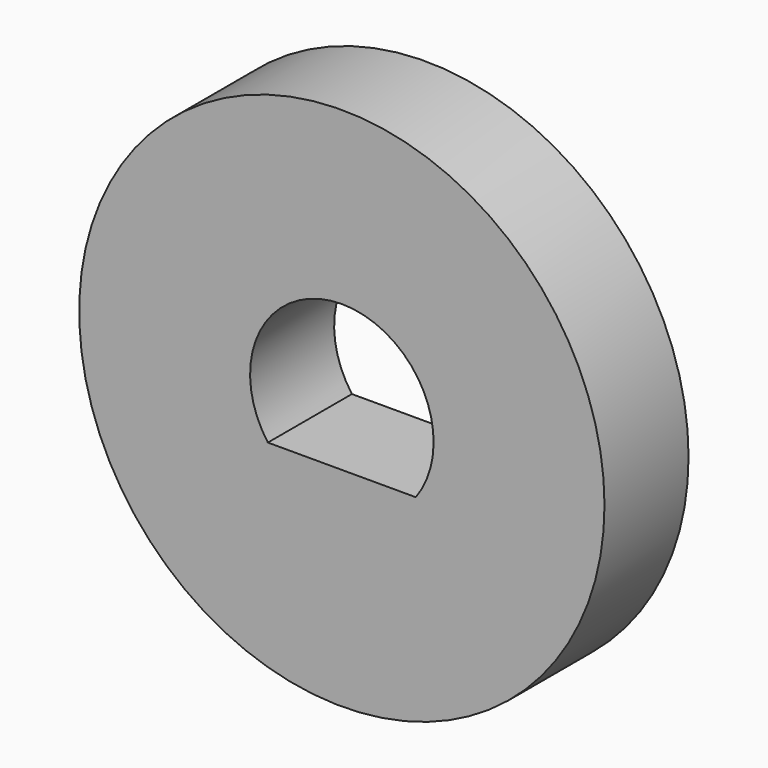
from build123d import *

# Parameters (mm, degrees)
F0_R     = 7.5
F1_DEPTH = 3


with BuildPart() as f1:
    # F0 (on Front) → F1 (new body)
    with BuildSketch(Plane.XZ):
        Circle(F0_R)
        with BuildLine():
            Line((2.112321, -1.55), (0, -1.55))
            Line((0, -1.55), (-2.112321, -1.55))
            ThreePointArc((-2.112321, -1.55), (0, 2.62), (2.112321, -1.55))
        make_face(mode=Mode.SUBTRACT)
    extrude(amount=F1_DEPTH)


solid = f1.part
